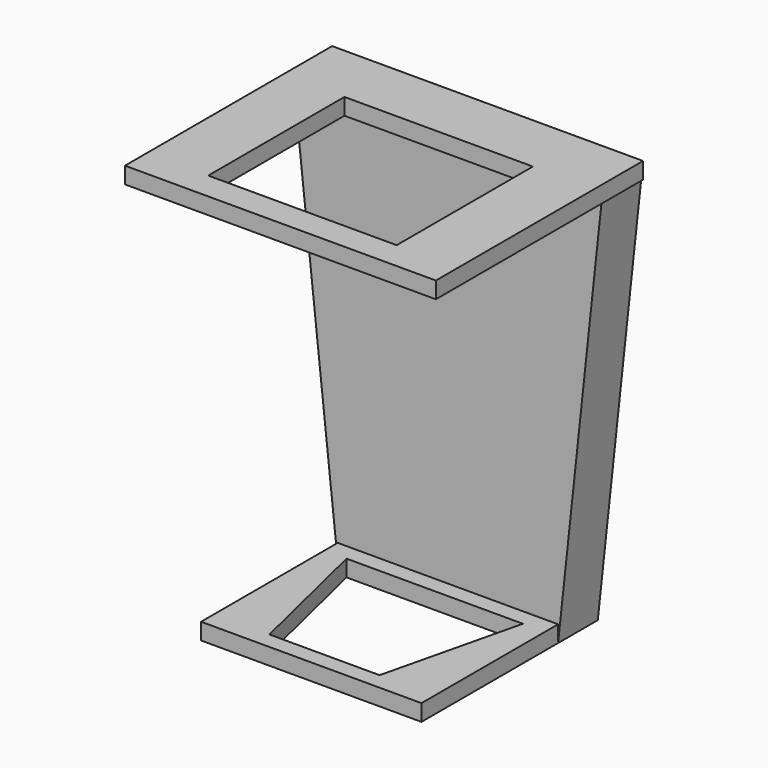
from build123d import *

# Parameters (mm, degrees)
PAD_DEPTH       = 9
SKETCH001_W     = 40
SKETCH001_H     = 40
PAD001_DEPTH    = 3
SKETCH002_W     = 56.425
SKETCH002_H     = 47
PAD002_DEPTH    = 3
SKETCH003_W     = 34.2
SKETCH003_H     = 30.9
POCKET_DEPTH    = 5
POCKET001_DEPTH = 5


with BuildPart() as part:
    # Sketch → Pad (new body)
    with BuildSketch(Plane.XZ):
        Polygon((-20, 0), (20, 0), (28.2125, 76.042319), (-28.2125, 76.042319), align=None)
    extrude(amount=PAD_DEPTH)

    # Sketch001 (on Face2 of Pad) → Pad001 (join)
    with BuildSketch(Plane(origin=(0, 0, 0), x_dir=(1, 0, 0), z_dir=(0, 0, -1))):
        with Locations((0, 20)):
            Rectangle(SKETCH001_W, SKETCH001_H)
    extrude(amount=-PAD001_DEPTH)

    # Sketch002 (on Face2 of Pad001) → Pad002 (join)
    with BuildSketch(Plane(origin=(0, 0, 76.042319), x_dir=(-1, 0, 0), z_dir=(0, 0, 1))):
        with Locations((0, 23.5)):
            Rectangle(SKETCH002_W, SKETCH002_H)
    extrude(amount=-PAD002_DEPTH)

    # Sketch003 (on Face14 of Pad002) → Pocket (cut)
    with BuildSketch(Plane(origin=(0, 0, 76.042319), x_dir=(-1, 0, 0), z_dir=(0, 0, 1))):
        with Locations((0, 26.55)):
            Rectangle(SKETCH003_W, SKETCH003_H)
    extrude(amount=-POCKET_DEPTH, mode=Mode.SUBTRACT)

    # Sketch004 (on Face5 of Pocket) → Pocket001 (cut)
    with BuildSketch(Plane(origin=(0, 0, 0), x_dir=(1, 0, 0), z_dir=(0, 0, -1))):
        Polygon((-16, 12), (16, 12), (10, 37), (-10, 37), align=None)
    extrude(amount=-POCKET001_DEPTH, mode=Mode.SUBTRACT)


solid = part.part
